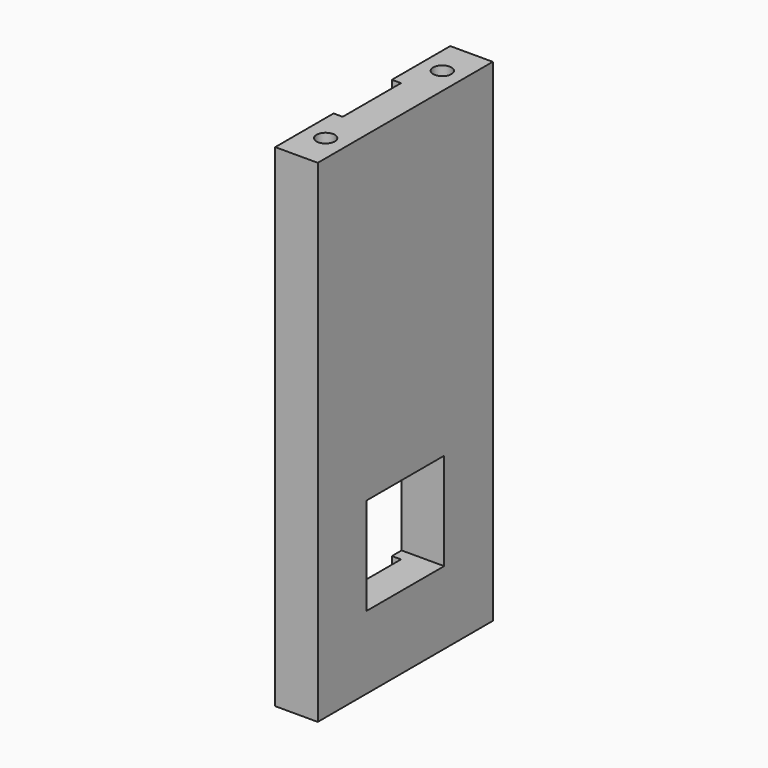
from build123d import *

# Parameters (mm, degrees)
F0_W     = 114.3
F0_H     = 257.175
F0_W_2   = 50.8
F0_H_2   = 50.8
F1_DEPTH = 22.225
F2_W     = 4.7625
F2_H     = 38.1
F3_DEPTH = 257.176
F4_R     = 4.7625
F5_DEPTH = 50.8


with BuildPart() as f1:
    # F0 (on Right) → F1 (new body)
    with BuildSketch(Plane.YZ):
        Rectangle(F0_W, F0_H)
        with Locations((0, -65.0875)):
            Rectangle(F0_W_2, F0_H_2, mode=Mode.SUBTRACT)
    extrude(amount=F1_DEPTH)

    # F2 (on face) → F3 (cut, through all)
    with BuildSketch(Plane.XY.offset(128.5875)):
        with Locations((2.38125, 0)):
            Rectangle(F2_W, F2_H)
    extrude(amount=-F3_DEPTH, mode=Mode.SUBTRACT)

    # F4 (on face) → F5 (cut)
    with BuildSketch(Plane.XY.offset(128.5875)):
        with Locations((11.1125, -38.1)):
            Circle(F4_R)
        with Locations((11.1125, 38.1)):
            Circle(F4_R)
    extrude(amount=-F5_DEPTH, mode=Mode.SUBTRACT)


solid = f1.part
